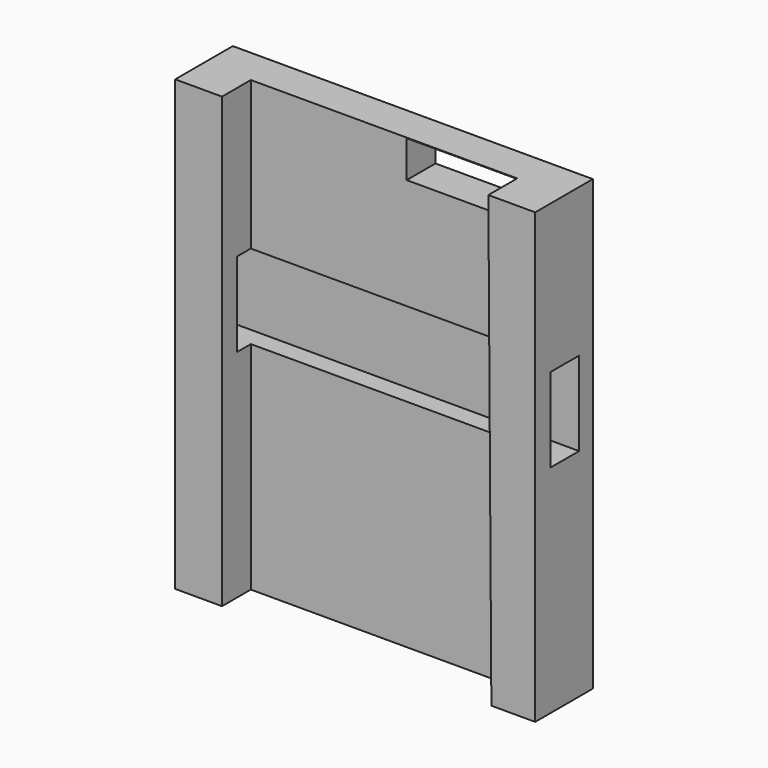
from build123d import *

# Parameters (mm, degrees)
F0_W     = 127
F0_H     = 158.242
F1_DEPTH = 25.4
F4_DEPTH = 12.7
F5_W     = 40
F5_H     = 13
F6_DEPTH = 25
F7_W     = 12.711242
F7_H     = 29.659567
F8_DEPTH = 152.4


with BuildPart() as f1:
    # F0 (on Front) → F1 (new body)
    with BuildSketch(Plane.XZ):
        Rectangle(F0_W, F0_H)
    extrude(amount=F1_DEPTH)

    # F3 (on face) → F4 (cut)
    with BuildSketch(Plane.XZ.offset(25.4)):
        Polygon((48.082705, -86.58883), (46.892088, 91.21117), (-46.977836, 91.21117), (-46.977836, -86.58883), align=None)
    extrude(amount=-F4_DEPTH, mode=Mode.SUBTRACT)

    # F5 (on face) → F6 (cut)
    with BuildSketch(Plane(origin=(0, 0, 0), x_dir=(-1, 0, 0), z_dir=(0, 1, 0))):
        with Locations((-28.005632, 72.421707)):
            Rectangle(F5_W, F5_H)
    extrude(amount=-F6_DEPTH, mode=Mode.SUBTRACT)

    # F7 (on face) → F8 (cut)
    with BuildSketch(Plane.YZ.offset(63.5)):
        with Locations((-12.408594, 11.954622)):
            Rectangle(F7_W, F7_H)
    extrude(amount=-F8_DEPTH, mode=Mode.SUBTRACT)


solid = f1.part
